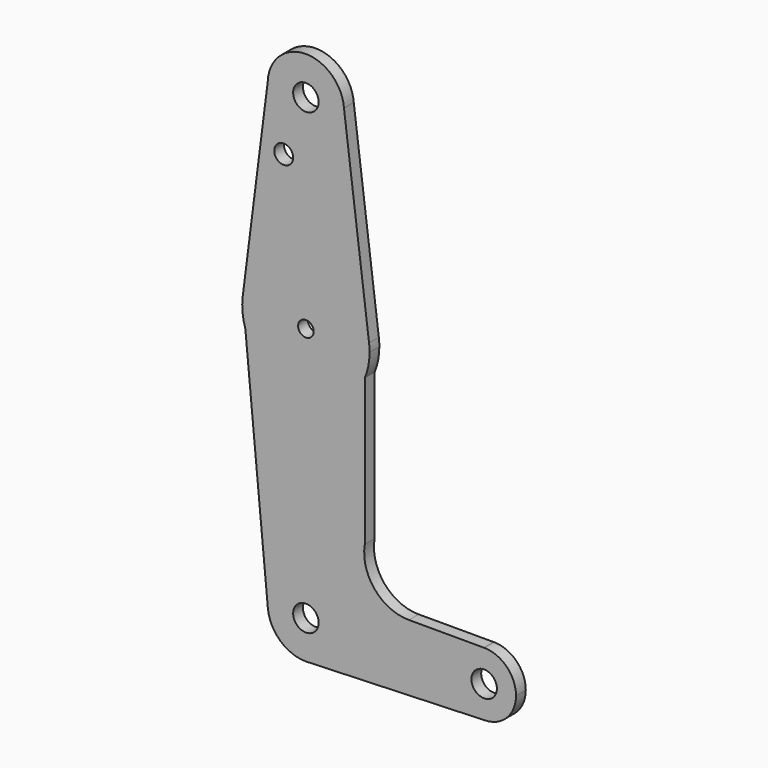
from build123d import *

# Parameters (mm, degrees)
F0_R     = 3.175
F0_R_2   = 1.940043
F0_R_3   = 2.356527
F1_DEPTH = 3.048


with BuildPart() as f1:
    # F0 (on Front) → F1 (new body)
    with BuildSketch(Plane.XZ):
        with BuildLine():
            ThreePointArc((0.677344, -9.500886), (6.970557, -6.491299), (9.525, 0))
            ThreePointArc((9.525, 0), (-0.447983, 9.514459), (-9.482861, -0.894975))
            ThreePointArc((-9.482861, -0.894975), (-6.410967, -7.044511), (0, -9.525))
            Line((0, -9.525), (0.677344, -9.500886))
        make_face()
        Circle(F0_R, mode=Mode.SUBTRACT)
        with BuildLine():
            ThreePointArc((-9.482861, -0.894975), (-0.447983, 9.514459), (9.525, 0))
            ThreePointArc((9.525, 0), (6.970557, -6.491299), (0.677344, -9.500886))
            Line((0.677344, -9.500886), (44.732405, -7.932475))
            ThreePointArc((44.732405, -7.932475), (36.515074, -0.202111), (44.328204, 7.936566))
            Line((44.328204, 7.936566), (25.669874, 7.936566))
            ThreePointArc((25.669874, 7.936566), (17.136576, 11.916566), (14.701838, 21.01215))
            Line((14.701838, 21.01215), (14.701838, 57.51071))
            ThreePointArc((14.701838, 57.51071), (-0.575377, 47.63543), (-15.097081, 58.591459))
            Line((-15.097081, 58.591459), (-9.482861, -0.894975))
        make_face()
        with BuildLine():
            ThreePointArc((0, -9.525), (0.338886, -9.51897), (0.677344, -9.500886))
            Line((0.677344, -9.500886), (0, -9.525))
        make_face()
        with BuildLine():
            Line((-15.748847, 65.497359), (-15.097081, 58.591459))
            ThreePointArc((-15.097081, 58.591459), (-0.575377, 47.63543), (14.701838, 57.51071))
            ThreePointArc((14.701838, 57.51071), (15.578949, 60.448447), (15.875, 63.5))
            ThreePointArc((15.875, 63.5), (15.84343, 64.500669), (15.748847, 65.497359))
            ThreePointArc((15.748847, 65.497359), (0, 79.375), (-15.748847, 65.497359))
        make_face()
        with Locations((0, 63.5)):
            Circle(F0_R_2, mode=Mode.SUBTRACT)
        with BuildLine():
            ThreePointArc((-15.748847, 65.497359), (-15.804768, 62.008375), (-15.097081, 58.591459))
            Line((-15.097081, 58.591459), (-15.748847, 65.497359))
        make_face()
        with BuildLine():
            ThreePointArc((44.328204, 7.936566), (36.515074, -0.202111), (44.732405, -7.932475))
            ThreePointArc((44.732405, -7.932475), (50.161633, -5.51191), (52.3875, 0))
            ThreePointArc((52.3875, 0), (50.105557, 5.569432), (44.571796, 7.936566))
            Line((44.571796, 7.936566), (44.328204, 7.936566))
        make_face()
        with Locations((44.45, 0)):
            Circle(F0_R, mode=Mode.SUBTRACT)
        with BuildLine():
            Line((-9.519903, 114.61156), (-15.748847, 65.497359))
            ThreePointArc((-15.748847, 65.497359), (0, 79.375), (15.748847, 65.497359))
            Line((15.748847, 65.497359), (9.497928, 115.017621))
            ThreePointArc((9.497928, 115.017621), (9.51823, 114.659066), (9.525, 114.3))
            ThreePointArc((9.525, 114.3), (-0.155801, 104.776274), (-9.519903, 114.61156))
        make_face()
        with Locations((-5.531527, 100.0252)):
            Circle(F0_R_3, mode=Mode.SUBTRACT)
        with BuildLine():
            ThreePointArc((44.571796, 7.936566), (44.45, 7.9375), (44.328204, 7.936566))
            Line((44.328204, 7.936566), (44.571796, 7.936566))
        make_face()
        with BuildLine():
            ThreePointArc((9.497928, 115.017621), (-0.203327, 123.82283), (-9.519903, 114.61156))
            ThreePointArc((-9.519903, 114.61156), (-0.155801, 104.776274), (9.525, 114.3))
            ThreePointArc((9.525, 114.3), (9.51823, 114.659066), (9.497928, 115.017621))
        make_face()
        with Locations((0, 114.3)):
            Circle(F0_R, mode=Mode.SUBTRACT)
    extrude(amount=F1_DEPTH)


solid = f1.part
